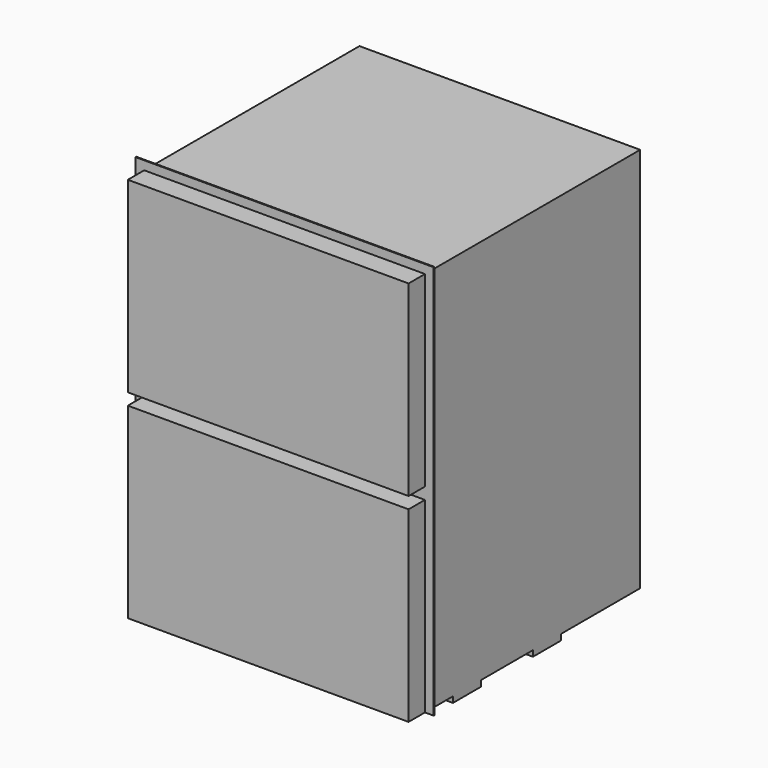
from build123d import *

# Parameters (mm, degrees)
F0_W     = 609.6
F0_H     = 838.2
F1_DEPTH = 584.2
F2_DEPTH = 2.032
F3_W     = 609.6
F3_H     = 406.4
F4_DEPTH = 44.45
F5_W     = 609.6
F5_H     = 76.2
F6_DEPTH = 12.7


with BuildPart() as f1:
    # F0 (on Front) → F1 (new body)
    with BuildSketch(Plane.XZ):
        with Locations((-304.8, 419.1)):
            Rectangle(F0_W, F0_H)
    extrude(amount=-F1_DEPTH)

    # F0 (on Front) → F2 (join)
    with BuildSketch(Plane.XZ):
        Polygon((0, 838.2), (0, 0), (19.05, 0), (19.05, 857.25), (-628.65, 857.25), (-628.65, 0), (-609.6, 0), (-609.6, 838.2), align=None)
    extrude(amount=-F2_DEPTH)

    # F3 (on face) → F4 (join)
    with BuildSketch(Plane.XZ):
        with Locations((-304.8, 635)):
            Rectangle(F3_W, F3_H)
        with Locations((-304.8, 203.2)):
            Rectangle(F3_W, F3_H)
    extrude(amount=F4_DEPTH)

    # F5 (on face) → F6 (join)
    with BuildSketch(Plane(origin=(0, 0, 0), x_dir=(1, 0, 0), z_dir=(0, 0, -1))):
        with Locations((-304.8, -114.060853)):
            Rectangle(F5_W, F5_H)
        with Locations((-304.8, -331.216)):
            Rectangle(F5_W, F5_H)
    extrude(amount=F6_DEPTH)


solid = f1.part
